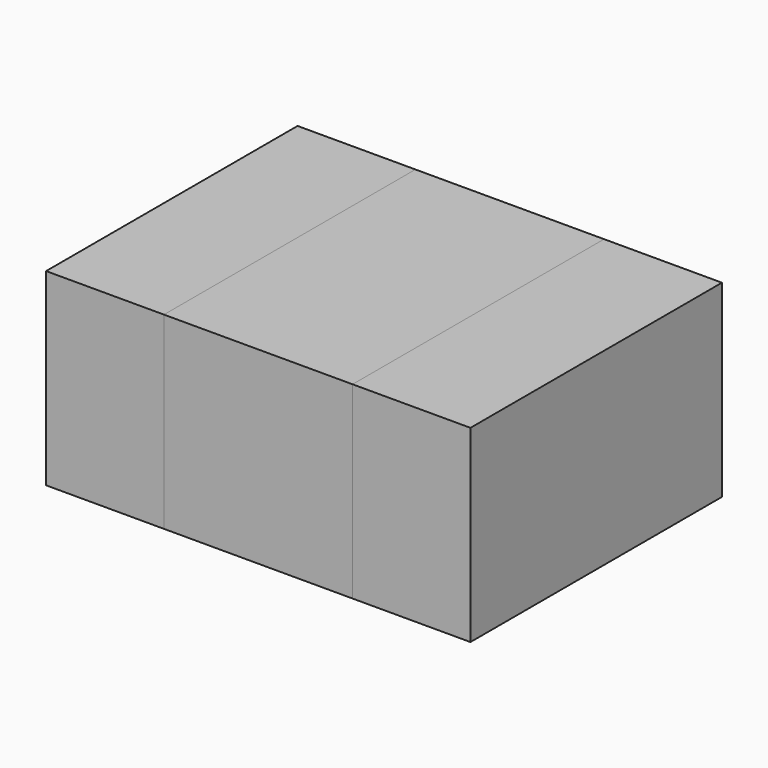
from build123d import *

# Parameters (mm, degrees)
F0_W     = 1.2
F0_H     = 2
F1_DEPTH = 1.2
F2_W     = 0.75
F2_H     = 2
F3_DEPTH = 1.2


with BuildPart() as f1:
    # F0 (on Top) → F1 (new body)
    with BuildSketch(Plane.XY):
        Rectangle(F0_W, F0_H)
    extrude(amount=F1_DEPTH)


with BuildPart() as f3:
    # F2 (on Top) → F3 (new body)
    with BuildSketch(Plane.XY):
        with Locations((-0.975, 0)):
            Rectangle(F2_W, F2_H)
        with Locations((0.975, 0)):
            Rectangle(F2_W, F2_H)
    extrude(amount=F3_DEPTH)


solid = Compound([f1.part, f3.part])
